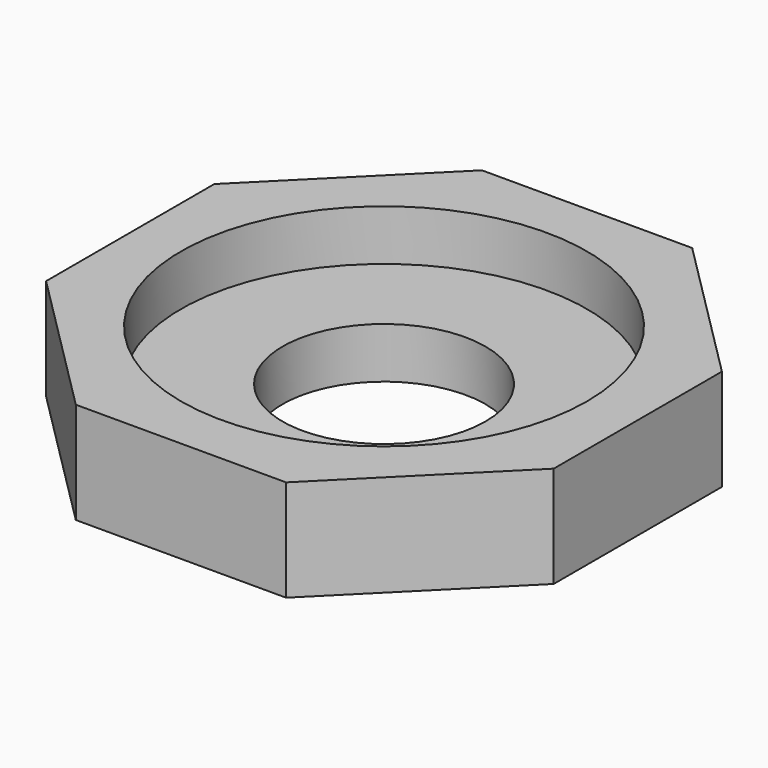
from build123d import *

# Parameters (mm, degrees)
F1_DEPTH = 10
F2_R     = 20
F3_DEPTH = 5
F4_R     = 10
F5_DEPTH = 25


with BuildPart() as f1:
    # F0 (on Top) → F1 (new body)
    with BuildSketch(Plane.XY):
        Polygon((25, -10.355339), (25, 10.355339), (10.355339, 25), (-10.355339, 25), (-25, 10.355339), (-25, -10.355339), (-10.355339, -25), (10.355339, -25), align=None)
    extrude(amount=F1_DEPTH)

    # F2 (on face) → F3 (cut)
    with BuildSketch(Plane.XY.offset(10)):
        Circle(F2_R)
    extrude(amount=-F3_DEPTH, mode=Mode.SUBTRACT)

    # F4 (on face) → F5 (cut)
    with BuildSketch(Plane.XY.offset(10)):
        Circle(F4_R)
    extrude(amount=-F5_DEPTH, mode=Mode.SUBTRACT)


solid = f1.part
